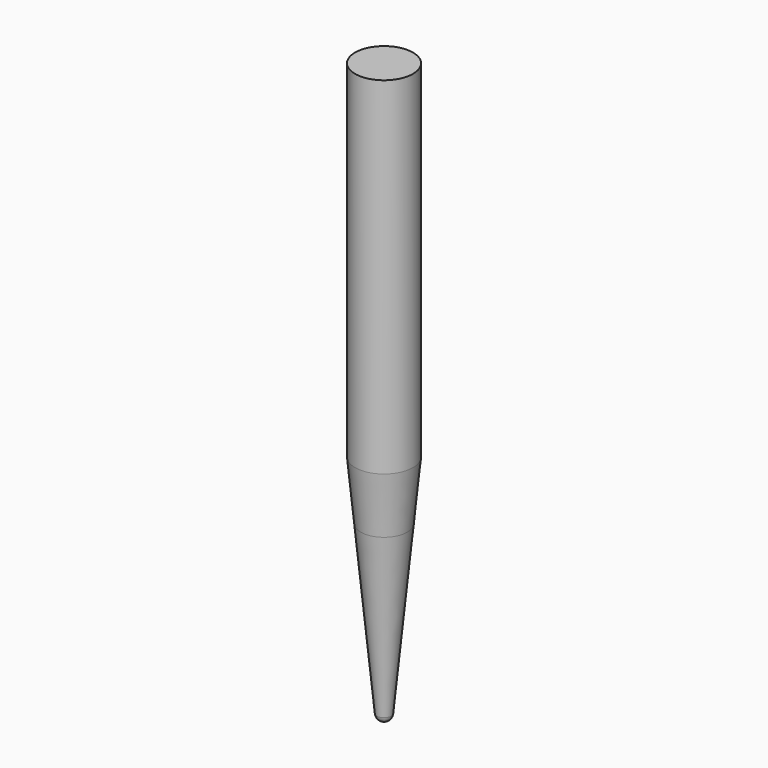
from build123d import *


with BuildPart() as part:
    # Sketch → Revolution (revolve)
    with BuildSketch(Plane.XZ):
        with BuildLine():
            Line((0, 63.5), (0, 0))
            ThreePointArc((0, 0), (0.533691, 0.206202), (0.790096, 0.717672))
            Line((0.790096, 0.717672), (2.555298, 19.05))
            Line((2.555298, 19.05), (3.175, 25.48585))
            Line((3.175, 25.49585), (3.175, 25.48585))
            Line((3.175, 63.5), (3.175, 25.49585))
            Line((3.175, 63.5), (0, 63.5))
        make_face()
    revolve(axis=Axis((0, 0, 0), (0, 0, 1)))


solid = part.part
